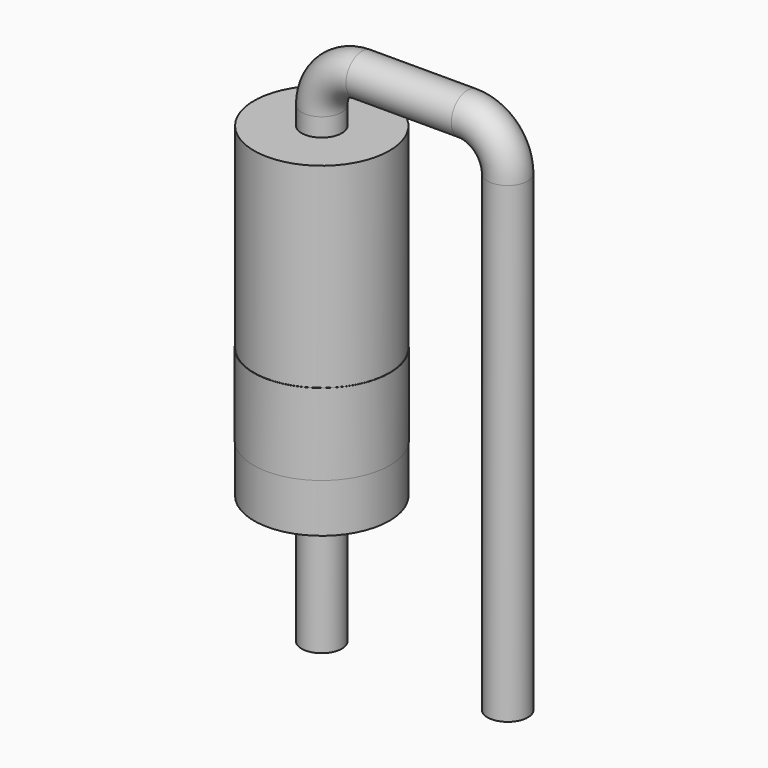
from build123d import *

# Parameters (mm, degrees)
SKETCH001_R = 0.55
SKETCH002_W = 1.85
SKETCH002_H = 8.9
SKETCH003_W = 1.86
SKETCH003_H = 2.225


with BuildPart() as sweep_body:
    # Sweep: sweep along a path in Sketch
    with BuildLine(Plane.XZ) as sweep_path:
        Line((0, -3), (0, 9.9))
        ThreePointArc((0, 9.9), (0.322183, 10.677817), (1.1, 11))
        Line((1.1, 11), (3.98, 11))
        ThreePointArc((3.98, 11), (4.757817, 10.677817), (5.08, 9.9))
        Line((5.08, 9.9), (5.08, -3))
    # Sketch001 → Sweep (sweep)
    with BuildSketch(Plane.XY):
        Circle(SKETCH001_R)
    sweep(path=sweep_path.line)


with BuildPart() as revolution:
    # Sketch002 → Revolution (revolve)
    with BuildSketch(Plane.XZ):
        with Locations((0.925, 4.95)):
            Rectangle(SKETCH002_W, SKETCH002_H)
    revolve(axis=Axis((0, 0, 0.5), (0, 0, 1)))


with BuildPart() as revolution001:
    # Sketch003 → Revolution001 (revolve)
    with BuildSketch(Plane.XZ):
        with Locations((0.93, 2.9475)):
            Rectangle(SKETCH003_W, SKETCH003_H)
    revolve(axis=Axis((0, 0, 0), (0, 0, 1)))


solid = Compound([sweep_body.part, revolution.part, revolution001.part])
